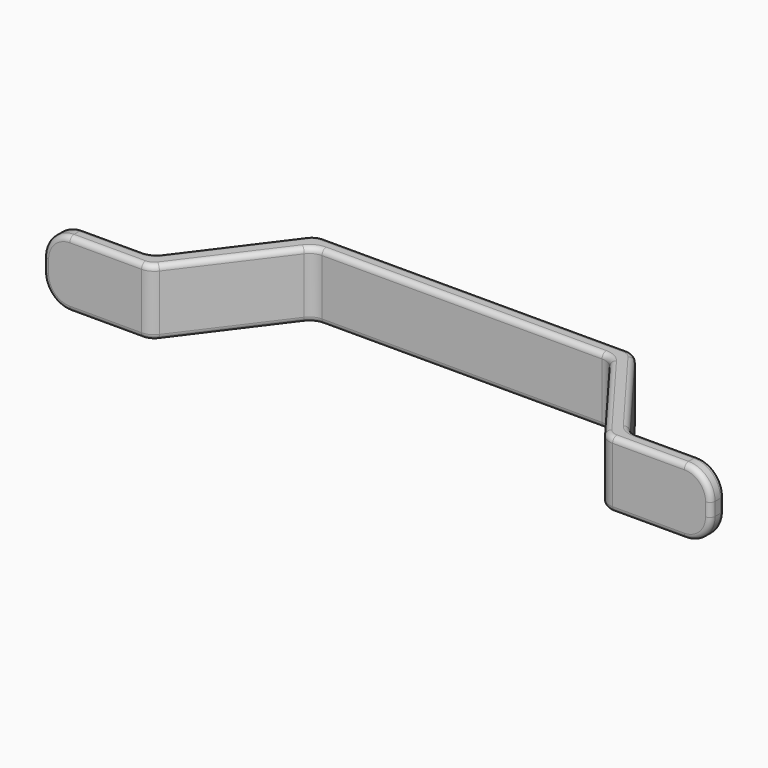
from build123d import *

# Parameters (mm, degrees)
F1_DEPTH = 25
F2_R     = 10
F3_R     = 2


with BuildPart() as f1:
    # F0 (on Top) → F1 (new body)
    with BuildSketch(Plane.XY):
        with BuildLine():
            Line((0, 6.5), (0, 0))
            Line((0, 0), (37, 0))
            ThreePointArc((37, 0), (39.683282, 0.633437), (41.8, 2.4))
            Line((41.8, 2.4), (68.2, 37.6))
            ThreePointArc((68.2, 37.6), (70.316718, 39.366563), (73, 40))
            Line((73, 40), (125.75, 40))
            Line((125.75, 40), (125.75, 46.5))
            Line((125.75, 46.5), (68.75, 46.5))
            ThreePointArc((68.75, 46.5), (66.066718, 45.866563), (63.95, 44.1))
            Line((63.95, 44.1), (37.55, 8.9))
            ThreePointArc((37.55, 8.9), (35.433282, 7.133437), (32.75, 6.5))
            Line((32.75, 6.5), (0, 6.5))
        make_face()
    extrude(amount=F1_DEPTH)

    # F2
    f2_edges = [f1.edges().sort_by_distance(p)[0] for p in [
        (0, 3.25, 25),
        (0, 3.25, 0),
    ]]
    fillet(f2_edges, radius=F2_R)

    # F3
    f3_edges = [f1.edges().sort_by_distance(p)[0] for p in [
        (99.375, 40, 25),
        (97.25, 46.5, 25),
    ]]
    fillet(f3_edges, radius=F3_R)

    # F4: F1 across face


with BuildPart() as f1_1:
    add(f1.part)
    add(f1.part.mirror(Plane(origin=(125.75, 43.25, 12.5), x_dir=(0, 1, 0), z_dir=(1, 0, 0))))


solid = f1_1.part
